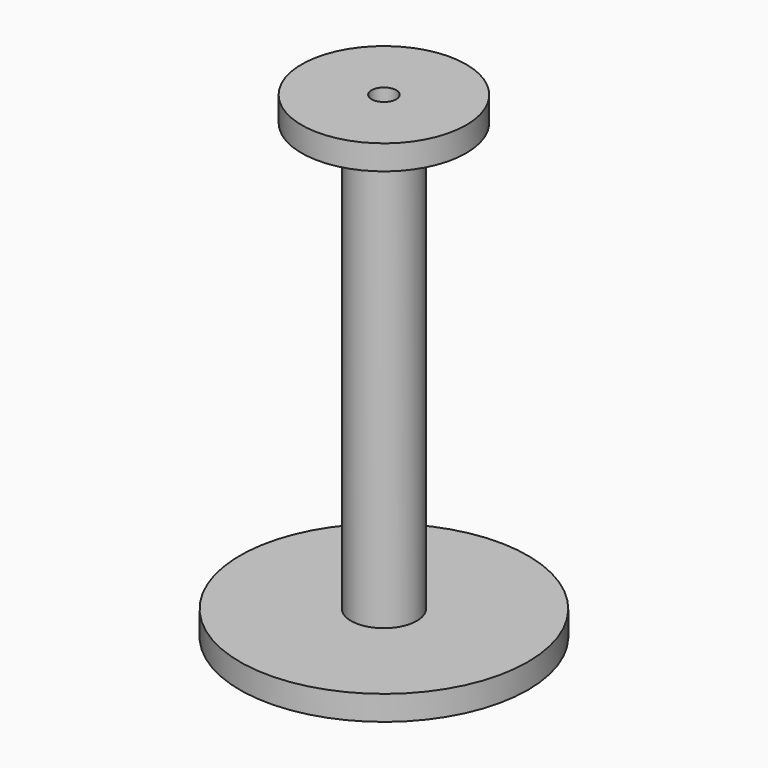
from build123d import *

# Parameters (mm, degrees)
F0_R     = 17.5
F0_R_2   = 4
F1_DEPTH = 3
F2_DEPTH = 55
F3_R     = 10
F3_R_2   = 4
F4_DEPTH = 3
F5_R     = 1.5
F6_DEPTH = 58.001


with BuildPart() as f1:
    # F0 (on Top) → F1 (new body)
    with BuildSketch(Plane.XY):
        Circle(F0_R)
        Circle(F0_R_2, mode=Mode.SUBTRACT)
        Circle(F0_R_2)
    extrude(amount=F1_DEPTH)

    # F0 (on Top) → F2 (join)
    with BuildSketch(Plane.XY):
        Circle(F0_R_2)
    extrude(amount=F2_DEPTH)

    # F3 (on face) → F4 (join)
    with BuildSketch(Plane.XY.offset(55)):
        Circle(F3_R)
        Circle(F3_R_2)
    extrude(amount=F4_DEPTH)

    # F5 (on face) → F6 (cut, through all)
    with BuildSketch(Plane.XY.offset(58)):
        Circle(F5_R)
    extrude(amount=-F6_DEPTH, mode=Mode.SUBTRACT)


solid = f1.part
